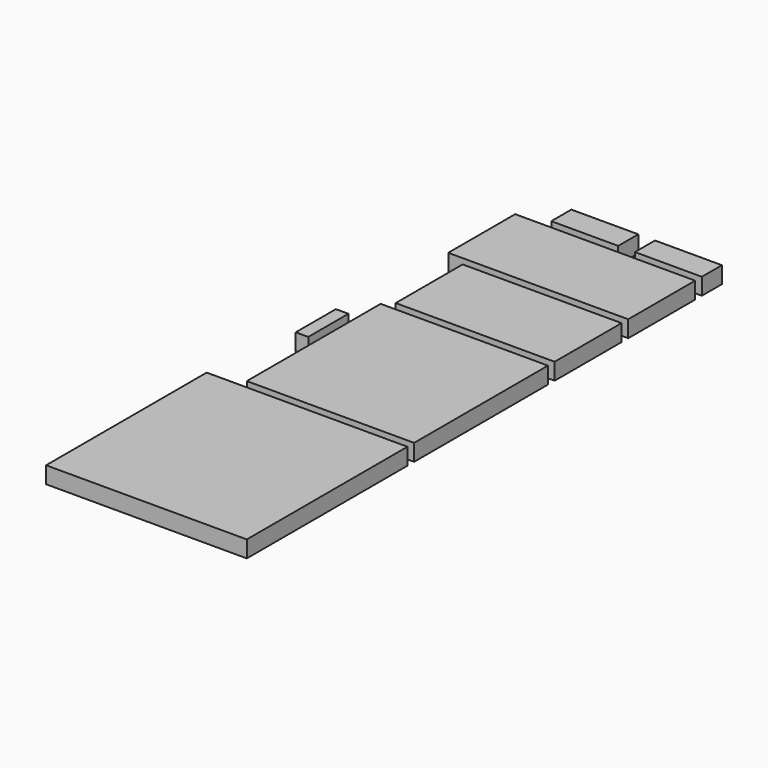
from build123d import *

# Parameters (mm, degrees)
F0_W     = 304.8
F0_H     = 0.682704
F0_H_2   = 304.117296
F0_W_2   = 254
F0_H_3   = 254
F0_W_3   = 241.3
F0_H_4   = 127
F0_W_4   = 273.279897
F0_W_5   = 101.6
F0_H_5   = 38.1
F0_W_6   = 19.05
F0_H_6   = 76.2
F1_DEPTH = 25.4


with BuildPart() as f1:
    # F0 (on Top) → F1 (new body)
    with BuildSketch(Plane.XY):
        with Locations((-91.431084, -18.545153)):
            Rectangle(F0_W, F0_H)
        with Locations((-91.431084, 133.854847)):
            Rectangle(F0_W, F0_H_2)
        with Locations((-66.031084, 425.613495)):
            Rectangle(F0_W_2, F0_H_3)
        with Locations((-59.681084, 628.813495)):
            Rectangle(F0_W_3, F0_H_4)
        with Locations((-75.671032, 768.513495)):
            Rectangle(F0_W_4, F0_H_4)
        with Locations((-116.831084, 863.763495)):
            Rectangle(F0_W_5, F0_H_5)
        with Locations((10.168916, 863.763495)):
            Rectangle(F0_W_5, F0_H_5)
        with Locations((-216.456966, 470.722135)):
            Rectangle(F0_W_6, F0_H_6)
    extrude(amount=F1_DEPTH)


solid = f1.part
